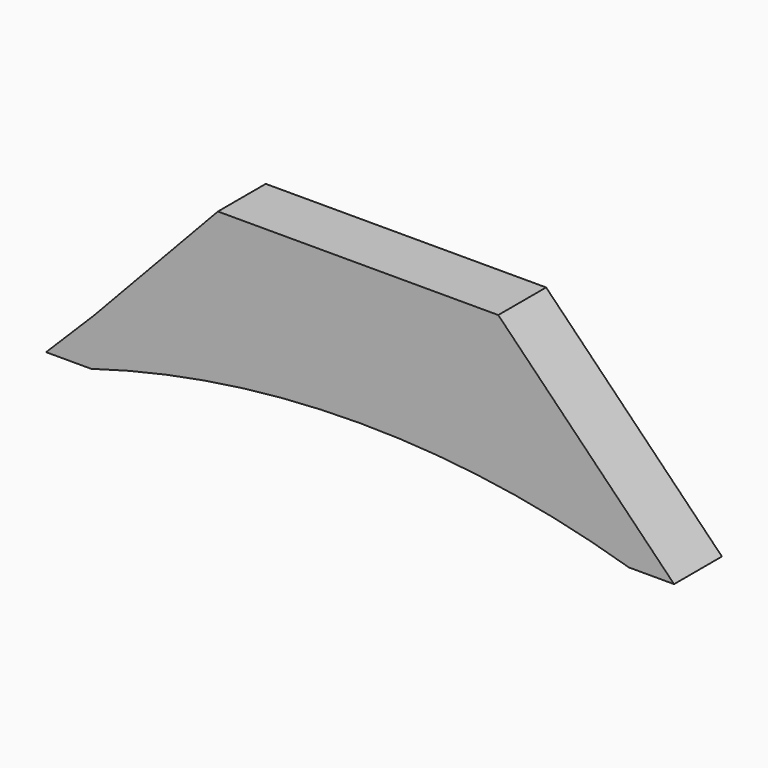
from build123d import *

# Parameters (mm, degrees)
F1_DEPTH = 25.4


with BuildPart() as f1:
    # F0 (on Front) → F1 (new body)
    with BuildSketch(Plane.XZ):
        with BuildLine():
            Line((-101.154926, 11.54634), (-121.53038, -8.829114))
            Line((-121.53038, -8.829114), (-102.389246, -8.829114))
            ThreePointArc((-102.389246, -8.829114), (11.819616, 7.991988), (126.028478, -8.829114))
            Line((126.028478, -8.829114), (145.16962, -8.829114))
            Line((145.16962, -8.829114), (70.50777, 67.500003))
            Line((70.50777, 67.500003), (-48.560128, 67.500003))
            Line((-48.560128, 67.500003), (-101.154926, 11.54634))
        make_face()
    extrude(amount=F1_DEPTH)


solid = f1.part
